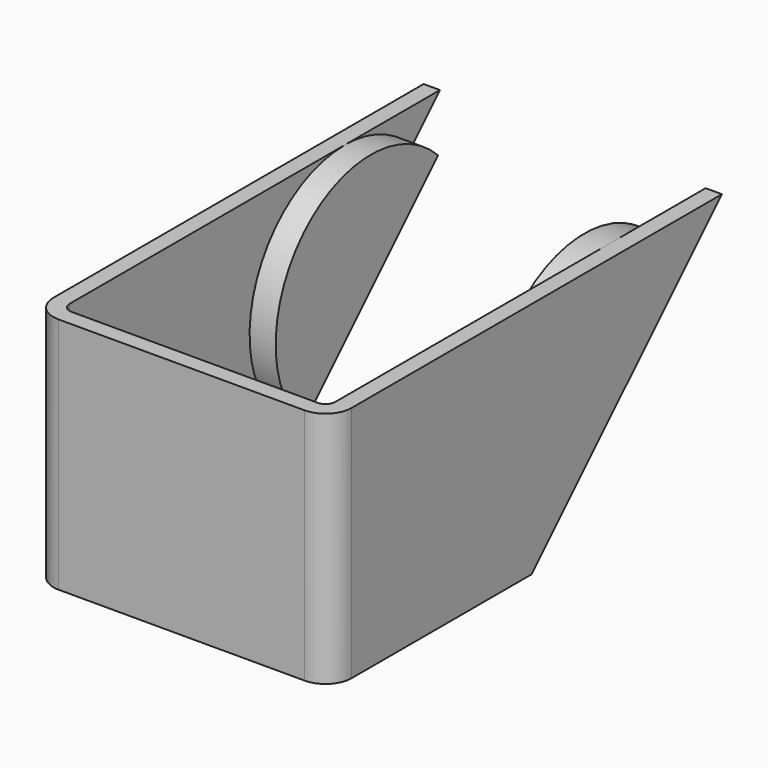
from build123d import *

# Parameters (mm, degrees)
F1_DEPTH = 18.542
F3_DEPTH = 23.242
F5_DEPTH = 2.032
F7_DEPTH = 2.032


with BuildPart() as f1:
    # F0 (on Top) → F1 (new body)
    with BuildSketch(Plane.XY):
        with BuildLine():
            Line((-10.3505, 38.1), (-11.6205, 38.1))
            Line((-11.6205, 38.1), (-11.6205, 2.032))
            ThreePointArc((-11.6205, 2.032), (-11.025341, 0.595159), (-9.5885, 0))
            Line((-9.5885, 0), (9.5885, 0))
            ThreePointArc((9.5885, 0), (11.025341, 0.595159), (11.6205, 2.032))
            Line((11.6205, 2.032), (11.6205, 38.1))
            Line((11.6205, 38.1), (10.3505, 38.1))
            Line((10.3505, 38.1), (10.3505, 2.032))
            ThreePointArc((10.3505, 2.032), (10.127315, 1.493185), (9.5885, 1.27))
            Line((9.5885, 1.27), (-9.5885, 1.27))
            ThreePointArc((-9.5885, 1.27), (-10.127315, 1.493185), (-10.3505, 2.032))
            Line((-10.3505, 2.032), (-10.3505, 38.1))
        make_face()
    extrude(amount=F1_DEPTH)

    # F2 (on face) → F3 (cut, through all)
    with BuildSketch(Plane.YZ.offset(11.6205)):
        Polygon((38.1, 0), (38.1, 18.542), (19.558, 0), align=None)
    extrude(amount=-F3_DEPTH, mode=Mode.SUBTRACT)

    # F4 (on face) → F5 (join)
    with BuildSketch(Plane.YZ.offset(-10.3505)):
        with BuildLine():
            Line((22.273413, 2.715413), (35.384587, 15.826587))
            ThreePointArc((35.384587, 15.826587), (22.273413, 15.826587), (22.273413, 2.715413))
        make_face()
    extrude(amount=F5_DEPTH)

    # F6 (on face) → F7 (join)
    with BuildSketch(Plane(origin=(10.3505, 0, 0), x_dir=(0, -1, 0), z_dir=(-1, 0, 0))):
        with BuildLine():
            Line((-35.384587, 15.826587), (-22.273413, 2.715413))
            ThreePointArc((-22.273413, 2.715413), (-22.273413, 15.826587), (-35.384587, 15.826587))
        make_face()
    extrude(amount=F7_DEPTH)


solid = f1.part
